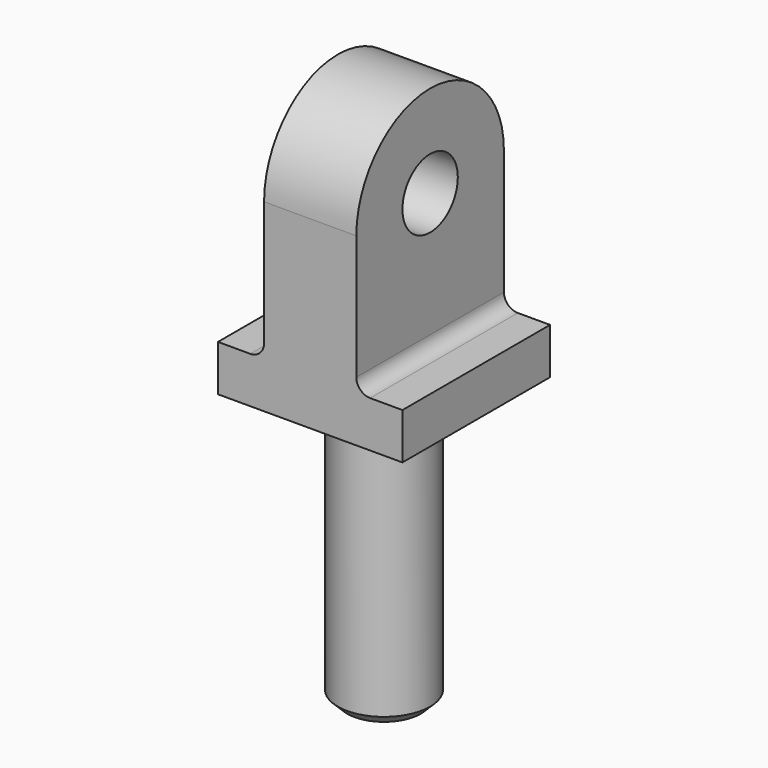
from build123d import *

# Parameters (mm, degrees)
F0_W      = 50.8
F0_H      = 50.8
F1_DEPTH  = 12.7
F3_R      = 12.7
F4_DEPTH  = 76.2
F5_W      = 50.8
F5_H      = 38.1
F6_DEPTH  = 38.1
F7_DEPTH  = 12.7
F8_R      = 9.525
F9_DEPTH  = 38.101
F10_R     = 3.81
F11_SIZE2 = 2.54
F11_SIZE  = 2.54


with BuildPart() as f1:
    # F0 (on Top) → F1 (new body)
    with BuildSketch(Plane.XY):
        with Locations((25.4, -25.4)):
            Rectangle(F0_W, F0_H)
    extrude(amount=F1_DEPTH)

    # F3 (on face) → F4 (join)
    with BuildSketch(Plane(origin=(0, 0, 0), x_dir=(1, 0, 0), z_dir=(0, 0, -1))):
        with Locations((25.4, 25.4)):
            Circle(F3_R)
    extrude(amount=F4_DEPTH)

    # F5 (on Right) → F6 (join)
    with BuildSketch(Plane.YZ):
        with BuildLine():
            ThreePointArc((0, 50.8), (-25.4, 76.2), (-50.8, 50.8))
            Line((-50.8, 50.8), (0, 50.8))
        make_face()
        with Locations((-25.4, 31.75)):
            Rectangle(F5_W, F5_H)
    extrude(amount=F6_DEPTH)

    # F5 (on Right) → F7 (cut)
    with BuildSketch(Plane.YZ):
        with BuildLine():
            ThreePointArc((0, 50.8), (-25.4, 76.2), (-50.8, 50.8))
            Line((-50.8, 50.8), (0, 50.8))
        make_face()
        with Locations((-25.4, 31.75)):
            Rectangle(F5_W, F5_H)
    extrude(amount=F7_DEPTH, mode=Mode.SUBTRACT)

    # F8 (on face) → F9 (cut, through all)
    with BuildSketch(Plane.YZ.offset(38.1)):
        with Locations((-25.4, 50.8)):
            Circle(F8_R)
    extrude(amount=-F9_DEPTH, mode=Mode.SUBTRACT)

    # F10
    f10_edges = [f1.edges().sort_by_distance(p)[0] for p in [
        (38.1, -25.4, 12.7),
        (12.7, -25.4, 12.7),
        (12.7, -25.4, 0),
    ]]
    fillet(f10_edges, radius=F10_R)

    # F11
    f11_edges = [f1.edges().sort_by_distance(p)[0] for p in [
        (12.7, -25.4, -76.2),
    ]]
    chamfer(f11_edges, length=F11_SIZE, length2=F11_SIZE2)


solid = f1.part
